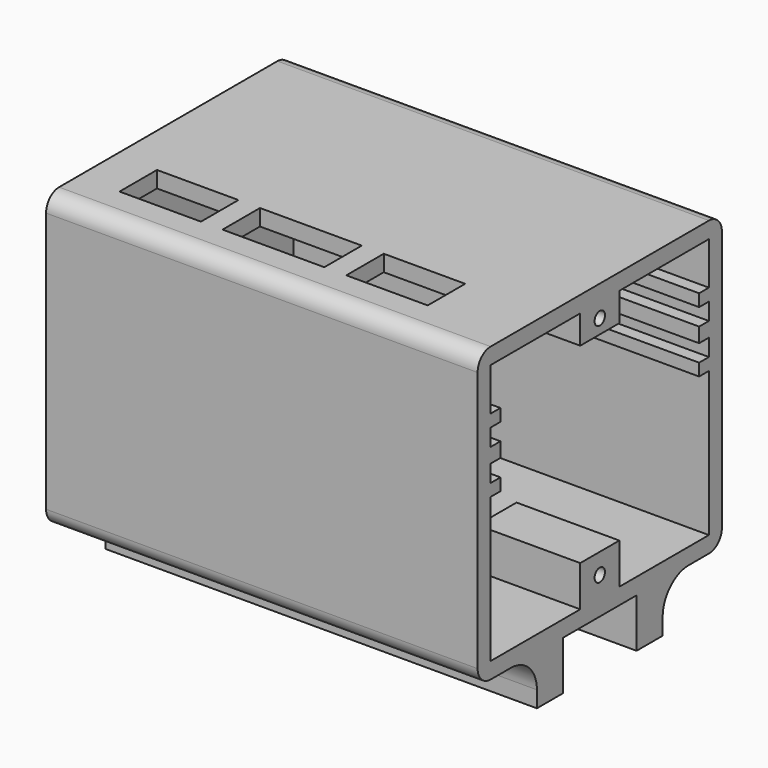
from build123d import *

# Parameters (mm, degrees)
SKETCH_W        = 53
SKETCH_H        = 37.5
SKETCH_W_2      = 49
SKETCH_H_2      = 33.5
PAD_DEPTH       = 32
SKETCH001_W     = 53
SKETCH001_H     = 37.5
PAD001_DEPTH    = 2
SKETCH002_W     = 53
SKETCH002_H     = 37.5
PAD002_DEPTH    = 2
SKETCH003_W     = 33.5
SKETCH003_H     = 32
POCKET_DEPTH    = 2
SKETCH004_W     = 10
SKETCH004_H     = 5.75
SKETCH004_W_2   = 12.5
SKETCH004_W_3   = 9.9999999999
POCKET001_DEPTH = 5
SKETCH005_W     = 51
SKETCH005_H     = 1.8
SKETCH005_H_2   = 1.5
PAD003_DEPTH    = 33.5
SKETCH006_W     = 30.5
SKETCH006_H     = 9
POCKET002_DEPTH = 51
SKETCH007_W     = 17.616245
SKETCH007_H     = 6
PAD004_DEPTH    = 5
SKETCH008_R     = 0.8
POCKET003_DEPTH = 5
SKETCH009_W     = 17.616245
SKETCH009_H     = 6
PAD005_DEPTH    = 3.5
SKETCH010_R     = 0.8
POCKET004_DEPTH = 6
CHAMFER_SIZE    = 3.499
CHAMFER001_SIZE = 4.99
FILLET_R        = 1.99
SKETCH011_W     = 53
SKETCH011_H     = 4
PAD006_DEPTH    = 6
FILLET001_R     = 4


with BuildPart() as part:
    # Sketch → Pad (new body)
    with BuildSketch(Plane.XY):
        Rectangle(SKETCH_W, SKETCH_H)
        Rectangle(SKETCH_W_2, SKETCH_H_2, mode=Mode.SUBTRACT)
    extrude(amount=PAD_DEPTH)

    # Sketch001 (on Face10 of Pad) → Pad001 (join)
    with BuildSketch(Plane.XY.offset(32)):
        Rectangle(SKETCH001_W, SKETCH001_H)
    extrude(amount=PAD001_DEPTH)

    # Sketch002 (on Face4 of Pad001) → Pad002 (join)
    with BuildSketch(Plane(origin=(0, 0, 0), x_dir=(1, 0, 0), z_dir=(0, 0, -1))):
        Rectangle(SKETCH002_W, SKETCH002_H)
    extrude(amount=PAD002_DEPTH)

    # Sketch003 (on Face3 of Pad002) → Pocket (cut)
    with BuildSketch(Plane.YZ.offset(26.5)):
        with Locations((0, 16)):
            Rectangle(SKETCH003_W, SKETCH003_H)
    extrude(amount=-POCKET_DEPTH, mode=Mode.SUBTRACT)

    # Sketch004 (on Face13 of Pocket) → Pocket001 (cut)
    with BuildSketch(Plane.XY.offset(34)):
        with Locations((-16.4, -10.975)):
            Rectangle(SKETCH004_W, SKETCH004_H)
        with Locations((-2.5, -10.975)):
            Rectangle(SKETCH004_W_2, SKETCH004_H)
        with Locations((11.45, -10.975)):
            Rectangle(SKETCH004_W_3, SKETCH004_H)
    extrude(amount=-POCKET001_DEPTH, mode=Mode.SUBTRACT)

    # Sketch005 (on Face36 of Pocket001) → Pad003 (join)
    with BuildSketch(Plane(origin=(0, -16.75, 0), x_dir=(-1, 0, 0), z_dir=(0, 1, 0))):
        with Locations((-1, 22.25)):
            Rectangle(SKETCH005_W, SKETCH005_H)
        with Locations((-1, 26)):
            Rectangle(SKETCH005_W, SKETCH005_H_2)
        with Locations((-1, 18.5)):
            Rectangle(SKETCH005_W, SKETCH005_H_2)
    extrude(amount=PAD003_DEPTH)

    # Sketch006 (on Face11 of Pad003) → Pocket002 (cut)
    with BuildSketch(Plane.YZ.offset(26.5)):
        with Locations((0, 22.25)):
            Rectangle(SKETCH006_W, SKETCH006_H)
    extrude(amount=-POCKET002_DEPTH, mode=Mode.SUBTRACT)

    # Sketch007 (on Face57 of Pocket002) → Pad004 (join)
    with BuildSketch(Plane.XY):
        with Locations((17.6918775, 0)):
            Rectangle(SKETCH007_W, SKETCH007_H)
    extrude(amount=PAD004_DEPTH)

    # Sketch008 (on Face24 of Pad004) → Pocket003 (cut)
    with BuildSketch(Plane.YZ.offset(26.5)):
        with Locations((0, 2.5)):
            Circle(SKETCH008_R)
    extrude(amount=-POCKET003_DEPTH, mode=Mode.SUBTRACT)

    # Sketch009 (on Face65 of Pocket003) → Pad005 (join)
    with BuildSketch(Plane(origin=(0, 0, 32), x_dir=(1, 0, 0), z_dir=(0, 0, -1))):
        with Locations((17.6918775, 0)):
            Rectangle(SKETCH009_W, SKETCH009_H)
    extrude(amount=PAD005_DEPTH)

    # Sketch010 (on Face41 of Pad005) → Pocket004 (cut)
    with BuildSketch(Plane.YZ.offset(26.5)):
        with Locations((0, 30.25)):
            Circle(SKETCH010_R)
    extrude(amount=-POCKET004_DEPTH, mode=Mode.SUBTRACT)

    # Chamfer
    chamfer_edges = [part.edges().sort_by_distance(p)[0] for p in [
        (8.883755, 0, 28.5),
    ]]
    chamfer(chamfer_edges, length=CHAMFER_SIZE)

    # Chamfer001
    chamfer001_edges = [part.edges().sort_by_distance(p)[0] for p in [
        (8.883755, 0, 5),
    ]]
    chamfer(chamfer001_edges, length=CHAMFER001_SIZE)

    # Fillet
    fillet_edges = [part.edges().sort_by_distance(p)[0] for p in [
        (0, -18.75, 34),
        (0, 18.75, 34),
        (0, 18.75, -2),
        (0, -18.75, -2),
    ]]
    fillet(fillet_edges, radius=FILLET_R)

    # Sketch011 (on Face5 of Fillet) → Pad006 (join)
    with BuildSketch(Plane(origin=(0, 0, -2), x_dir=(1, 0, 0), z_dir=(0, 0, -1))):
        with Locations((0, 7.65)):
            Rectangle(SKETCH011_W, SKETCH011_H)
        with Locations((0, -7.65)):
            Rectangle(SKETCH011_W, SKETCH011_H)
    extrude(amount=PAD006_DEPTH)

    # Fillet001
    fillet001_edges = [part.edges().sort_by_distance(p)[0] for p in [
        (0, 9.65, -2),
        (0, -9.65, -2),
    ]]
    fillet(fillet001_edges, radius=FILLET001_R)


solid = part.part
